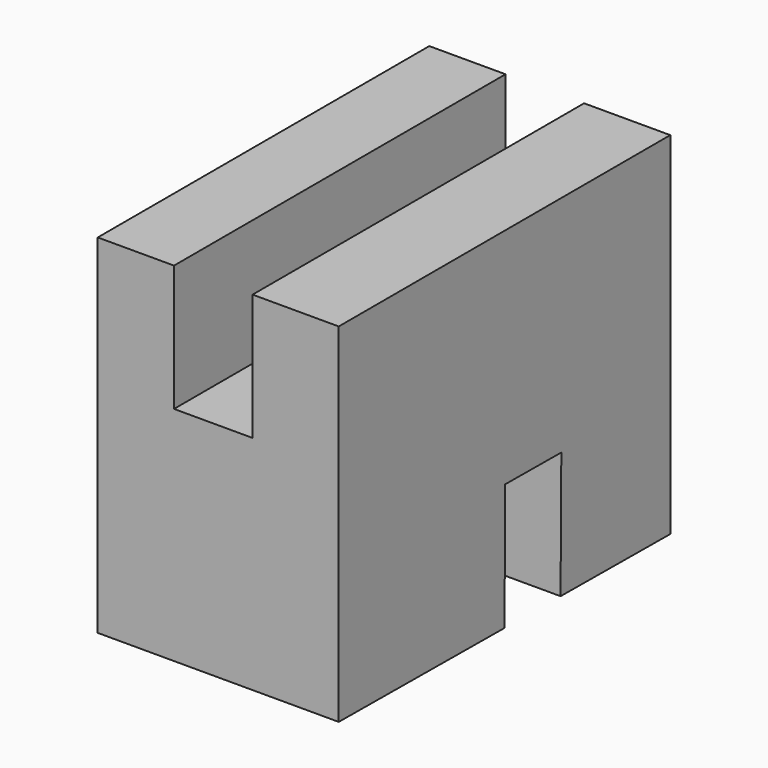
from build123d import *

# Parameters (mm, degrees)
F1_DEPTH = 48.514
F2_W     = 15.8159341663
F2_H     = 83.4212787449
F3_DEPTH = 25.4
F5_DEPTH = 25.4


with BuildPart() as f1:
    # F0 (on Right) → F1 (new body)
    with BuildSketch(Plane.YZ):
        Polygon((-41.7106375098, 22.4834308028), (-41.7106375098, -47.6028472185), (41.7106412351, -48.2230819762), (41.7106412351, 22.4834308028), align=None)
    extrude(amount=F1_DEPTH)

    # F2 (on face) → F3 (cut)
    with BuildSketch(Plane.XY.offset(22.4834308028)):
        with Locations((23.2587223873, 1.8626e-06)):
            Rectangle(F2_W, F2_H)
    extrude(amount=-F3_DEPTH, mode=Mode.SUBTRACT)

    # F4 (on face) → F5 (cut)
    with BuildSketch(Plane(origin=(0, -0.3562117937, -47.9103161593), x_dir=(1, 0, 0), z_dir=(0, -0.0074347651, -0.9999723618))):
        Polygon((48.514, -14.4669022411), (48.514, -0.3562235017), (0, 0), (0, -0.3562235017), (0, -14.4669022411), align=None)
    extrude(amount=-F5_DEPTH, mode=Mode.SUBTRACT)


solid = f1.part
